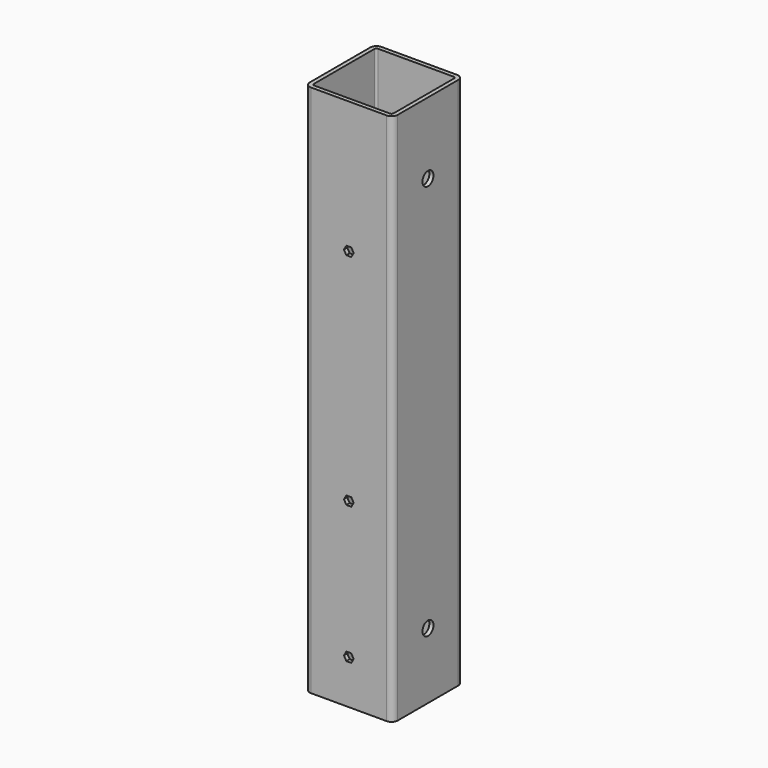
from build123d import *

# Parameters (mm, degrees)
F1_DEPTH = 615.95
F3_DEPTH = 25.4
F4_R     = 7.9375
F5_DEPTH = 101.601


with BuildPart() as f1:
    # F0 (on Top) → F1 (new body)
    with BuildSketch(Plane.XY):
        with BuildLine():
            Line((43.65625, 50.8), (-43.65625, 50.8))
            ThreePointArc((-43.65625, 50.8), (-48.707644, 48.707644), (-50.8, 43.65625))
            Line((-50.8, 43.65625), (-50.8, -43.65625))
            ThreePointArc((-50.8, -43.65625), (-48.707644, -48.707644), (-43.65625, -50.8))
            Line((-43.65625, -50.8), (43.65625, -50.8))
            ThreePointArc((43.65625, -50.8), (48.707644, -48.707644), (50.8, -43.65625))
            Line((50.8, -43.65625), (50.8, 43.65625))
            ThreePointArc((50.8, 43.65625), (48.707644, 48.707644), (43.65625, 50.8))
        make_face()
        with BuildLine():
            Line((43.65625, -46.0375), (-43.65625, -46.0375))
            ThreePointArc((-43.65625, -46.0375), (-45.340048, -45.340048), (-46.0375, -43.65625))
            Line((-46.0375, -43.65625), (-46.0375, 43.65625))
            ThreePointArc((-46.0375, 43.65625), (-45.340048, 45.340048), (-43.65625, 46.0375))
            Line((-43.65625, 46.0375), (43.65625, 46.0375))
            ThreePointArc((43.65625, 46.0375), (45.340048, 45.340048), (46.0375, 43.65625))
            Line((46.0375, 43.65625), (46.0375, -43.65625))
            ThreePointArc((46.0375, -43.65625), (45.340048, -45.340048), (43.65625, -46.0375))
        make_face(mode=Mode.SUBTRACT)
    extrude(amount=F1_DEPTH)

    # F2 (on face) → F3 (cut)
    with BuildSketch(Plane.XZ.offset(50.8)):
        Polygon((-2.822954, 45.9105), (2.822954, 45.9105), (5.645908, 50.8), (2.822954, 55.6895), (-2.822954, 55.6895), (-5.645908, 50.8), align=None)
        Polygon((-2.822954, 204.6605), (2.822954, 204.6605), (5.645908, 209.55), (2.822954, 214.4395), (-2.822954, 214.4395), (-5.645908, 209.55), align=None)
        Polygon((-2.822954, 458.6605), (2.822954, 458.6605), (5.645908, 463.55), (2.822954, 468.4395), (-2.822954, 468.4395), (-5.645908, 463.55), align=None)
    extrude(amount=-F3_DEPTH, mode=Mode.SUBTRACT)

    # F4 (on face) → F5 (cut, through all)
    with BuildSketch(Plane.YZ.offset(50.8)):
        with Locations((0, 76.2)):
            Circle(F4_R)
        with Locations((0, 533.4)):
            Circle(F4_R)
    extrude(amount=-F5_DEPTH, mode=Mode.SUBTRACT)


solid = f1.part
